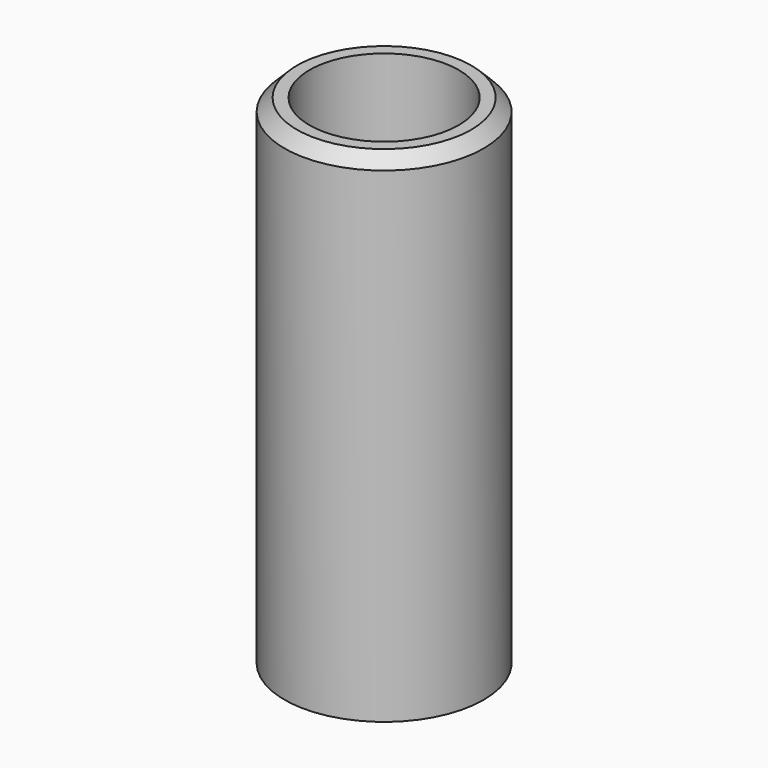
from build123d import *

# Parameters (mm, degrees)
SKETCH_R     = 4
SKETCH_R_2   = 3
PAD_DEPTH    = 20
CHAMFER_SIZE = 0.5


with BuildPart() as part:
    # Sketch → Pad (new body)
    with BuildSketch(Plane.XY):
        Circle(SKETCH_R)
        Circle(SKETCH_R_2, mode=Mode.SUBTRACT)
    extrude(amount=PAD_DEPTH)

    # Chamfer
    chamfer_edges = [part.edges().sort_by_distance(p)[0] for p in [
        (-4, 0, 20),
    ]]
    chamfer(chamfer_edges, length=CHAMFER_SIZE)


solid = part.part
